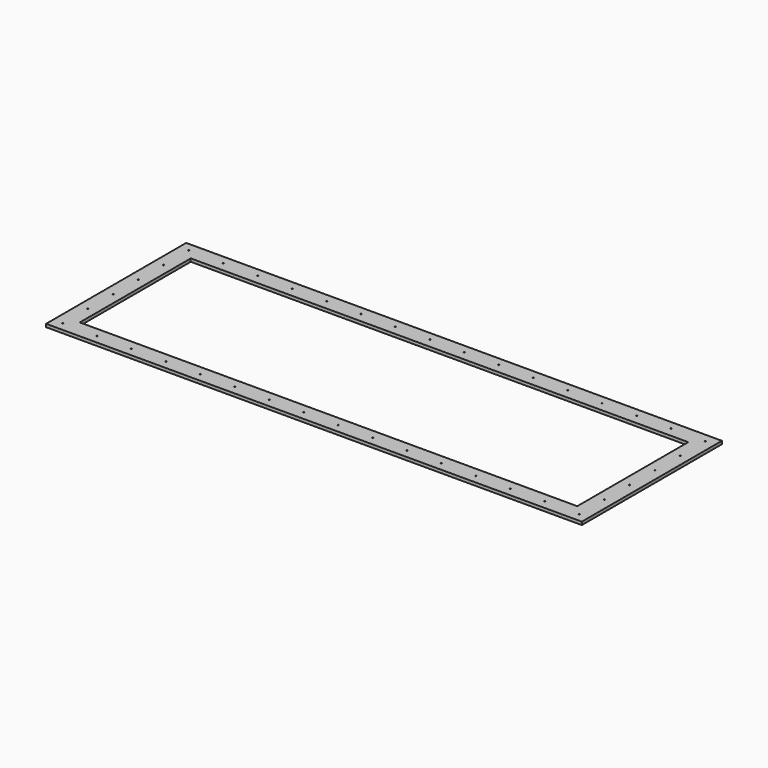
from build123d import *

# Parameters (mm, degrees)
F0_W     = 2240.006
F0_H     = 732.282
F0_W_2   = 2080.006
F0_H_2   = 579.882
F1_DEPTH = 12.7
F2_D     = 4.7625


with BuildPart() as f1:
    # F0 (on Top) → F1 (new body)
    with BuildSketch(Plane.XY):
        Rectangle(F0_W, F0_H)
        Rectangle(F0_W_2, F0_H_2, mode=Mode.SUBTRACT)
    extrude(amount=F1_DEPTH)

    # F2 (through all)
    with Locations(Plane(origin=(0, 0, 0), x_dir=(1, 0, 0), z_dir=(0, 0, -1))):
        with Locations((-936.003, -329.941), (-792.003, -329.941), (-648.003, -329.941), (-504.003, -329.941), (-360.003, -329.941), (-1080.003, -329.941), (-1080.003, -197.9626), (-1080.003, -65.9842), (-1080.003, 197.9726), (-1080.003, 329.941), (-936.003, 329.941), (-792.003, 329.941), (-1080.003, 65.9942), (-648.003, 329.941), (-504.003, 329.941), (-360.003, 329.941), (-216.003, 329.941), (-72.003, 329.941), (215.997, 329.941), (71.997, 329.941), (359.997, 329.941), (503.997, 329.941), (647.997, 329.941), (791.997, 329.941), (935.997, 329.941), (1080.003, 329.941), (1079.997, 197.9626), (1079.997, 65.9842), (1079.997, -65.9942), (1079.997, -197.9726), (1079.997, -329.941), (935.997, -329.941), (791.997, -329.941), (647.997, -329.941), (503.997, -329.941), (359.997, -329.941), (215.997, -329.941), (71.997, -329.941), (-72.003, -329.941), (-216.003, -329.941), (-72.003, -329.941)):
            Hole(F2_D / 2)


solid = f1.part
